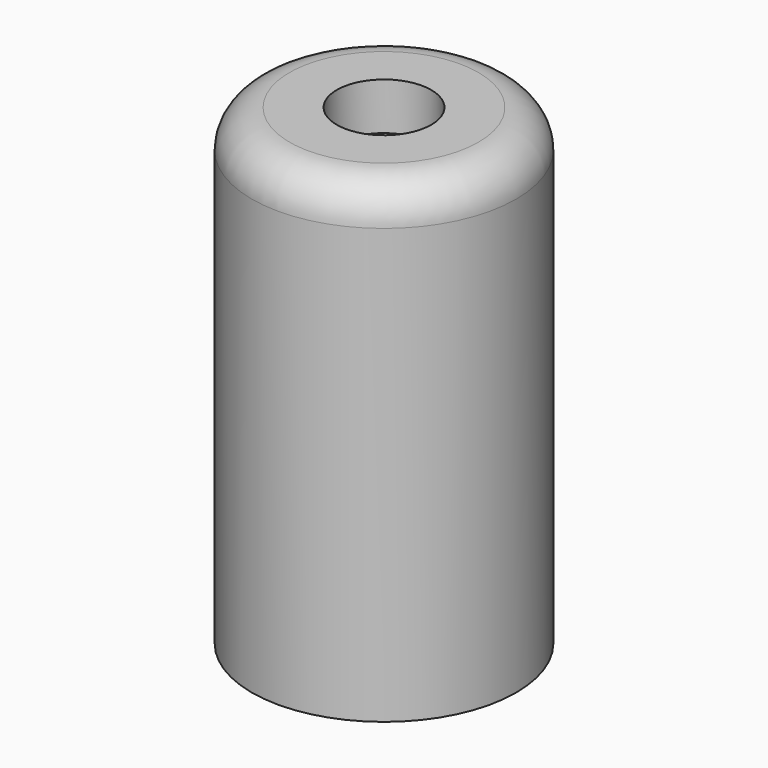
from build123d import *

# Parameters (mm, degrees)
SKETCH_R        = 7
PAD_DEPTH       = 25
SKETCH002_R     = 6
POCKET_DEPTH    = 22.5
SKETCH001_R     = 2.5
POCKET001_DEPTH = 3
FILLET_R        = 2


with BuildPart() as part:
    # Sketch → Pad (new body)
    with BuildSketch(Plane.XY):
        Circle(SKETCH_R)
    extrude(amount=PAD_DEPTH)

    # Sketch002 → Pocket (cut)
    with BuildSketch(Plane(origin=(0, 0, 0), x_dir=(1, 0, 0), z_dir=(0, 0, -1))):
        Circle(SKETCH002_R)
    extrude(amount=-POCKET_DEPTH, mode=Mode.SUBTRACT)

    # Sketch001 (on Face3 of Pad) → Pocket001 (cut)
    with BuildSketch(Plane.XY.offset(25)):
        Circle(SKETCH001_R)
    extrude(amount=-POCKET001_DEPTH, mode=Mode.SUBTRACT)

    # Fillet
    fillet_edges = [part.edges().sort_by_distance(p)[0] for p in [
        (-7, 0, 25),
    ]]
    fillet(fillet_edges, radius=FILLET_R)


solid = part.part
